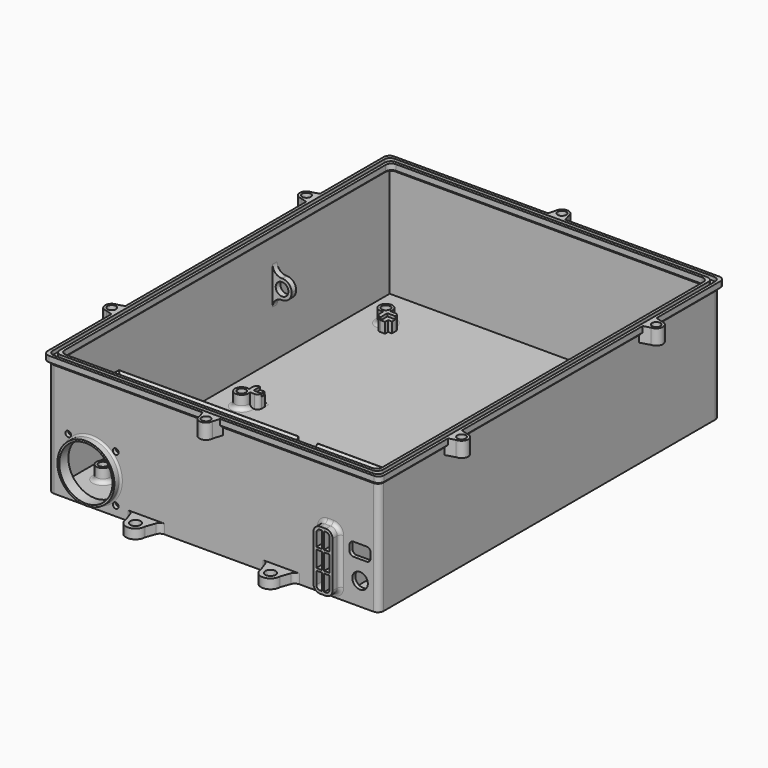
from build123d import *

# Parameters (mm, degrees)
SKETCH_W          = 174
SKETCH_H          = 224
PAD_DEPTH         = 62
SKETCH001_W       = 170
SKETCH001_H       = 220
POCKET_DEPTH      = 60
PAD001_DEPTH      = 30
POCKET001_START   = -4.5
SKETCH003_W       = 72
SKETCH003_H       = 2
POCKET001_DEPTH   = 25.5
SKETCH004_R       = 2.25
PAD002_DEPTH      = 7
SKETCH005_W       = 113
SKETCH005_H       = 88
POCKET002_DEPTH   = 2
FILLET_R          = 2
PAD003_DEPTH      = 2
PAD003_DEPTH_BACK = 1
PAD004_DEPTH      = 2
CHAMFER_SIZE      = 1.49
PAD005_START      = -20
SKETCH008_W       = 10
SKETCH008_H       = 3
PAD005_DEPTH      = 10
SKETCH009_R       = 3.35
POCKET003_DEPTH   = 5
FILLET001_R       = 4.9
SKETCH010_W       = 150
SKETCH010_H       = 40
POCKET004_DEPTH   = 7
POCKET005_DEPTH   = 5
PAD006_DEPTH      = 7
PAD007_DEPTH      = 2
CHAMFER001_SIZE   = 1.9
SKETCH014_R       = 4.1
SKETCH014_W       = 11
SKETCH014_H       = 7
POCKET006_DEPTH   = 5
FILLET002_R       = 2
SKETCH015_W       = 177
SKETCH015_H       = 227
SKETCH015_W_2     = 174
SKETCH015_H_2     = 224
SKETCH015_W_3     = 170
SKETCH015_H_3     = 220
SKETCH015_W_4     = 167
SKETCH015_H_4     = 217
PAD008_DEPTH      = 2
PAD008_DEPTH_BACK = 1
FILLET003_R       = 3
CHAMFER002_SIZE   = 1.49
FILLET004_R       = 4
PAD009_DEPTH      = 8
SKETCH017_R       = 2.25
POCKET007_DEPTH   = 7
SKETCH018_R       = 1.5
SKETCH018_R_2     = 14
POCKET008_DEPTH   = 2
FILLET005_R       = 2
PAD010_START      = -4
PAD010_DEPTH      = 8
SKETCH020_R       = 2.25
POCKET009_DEPTH   = 7
CHAMFER003_SIZE   = 1.5
POCKET010_DEPTH   = 2
PAD011_DEPTH      = 5
PAD012_DEPTH      = 7
FILLET006_R       = 1.9
FILLET007_R       = 1
SKETCH024_W       = 142
SKETCH024_H       = 114
POCKET011_DEPTH   = 7
SKETCH025_R       = 2.25
PAD013_DEPTH      = 7
SKETCH026_W       = 113
SKETCH026_H       = 88
POCKET012_DEPTH   = 1.5
FILLET008_R       = 2
FILLET009_R       = 3
PAD014_START      = -4
PAD014_DEPTH      = 2
FILLET010_R       = 1
SKETCH028_R       = 15
SKETCH028_R_2     = 14
PAD015_DEPTH      = 4
FILLET011_R       = 1
SKETCH029_R       = 3.5
SKETCH029_R_2     = 2.25
PAD016_DEPTH      = 7
FILLET012_R       = 2
SKETCH030_W       = 10
SKETCH030_H       = 2
POCKET013_DEPTH   = 4
SKETCH031_R       = 2.75
PAD017_DEPTH      = 5
FILLET013_R       = 3


with BuildPart() as part:
    # Sketch → Pad (new body)
    with BuildSketch(Plane.XY):
        Rectangle(SKETCH_W, SKETCH_H)
    extrude(amount=PAD_DEPTH)

    # Sketch001 (on Face6 of Pad) → Pocket (cut)
    with BuildSketch(Plane.XY.offset(62)):
        Rectangle(SKETCH001_W, SKETCH001_H)
    extrude(amount=-POCKET_DEPTH, mode=Mode.SUBTRACT)

    # Sketch002 (on Face11 of Pocket) → Pad001 (join)
    with BuildSketch(Plane.XY.offset(2)):
        Polygon((-85, -70), (-85, -68), (67, -68), (67, -110), (65, -110), (65, -70), align=None)
    extrude(amount=PAD001_DEPTH)

    # Sketch003 (on Face14 of Pad001) → Pocket001 (cut)
    with BuildSketch(Plane.XY.offset(32).offset(POCKET001_START)):
        with Locations((-49, -69)):
            Rectangle(SKETCH003_W, SKETCH003_H)
        with Locations((29, -69)):
            Rectangle(SKETCH003_W, SKETCH003_H)
    extrude(amount=-POCKET001_DEPTH, mode=Mode.SUBTRACT)

    # Sketch004 (on Face19 of Pocket001) → Pad002 (join)
    with BuildSketch(Plane.XY.offset(2)):
        with BuildLine():
            Line((-58.75, 85.480826), (-58.75, 80.980826))
            Line((-58.75, 80.980826), (-54.25, 80.980826))
            Line((-54.25, 80.980826), (-54.25, 83))
            Line((-54.25, 83), (-52.230826, 83))
            Line((-52.230826, 83), (-52.230826, 87.5))
            Line((-52.230826, 87.5), (-56.730826, 87.5))
            ThreePointArc((-56.730826, 87.5), (-62.474874, 91.224874), (-58.75, 85.480826))
        make_face()
        with Locations((-60, 88.75)):
            Circle(SKETCH004_R, mode=Mode.SUBTRACT)
        with BuildLine():
            Line((56.730826, 87.5), (52.230826, 87.5))
            Line((52.230826, 87.5), (52.230826, 83))
            Line((52.230826, 83), (54.25, 83))
            Line((54.25, 83), (54.25, 80.980826))
            Line((54.25, 80.980826), (58.75, 80.980826))
            Line((58.75, 80.980826), (58.75, 85.480826))
            ThreePointArc((58.75, 85.480826), (62.474874, 91.224874), (56.730826, 87.5))
        make_face()
        with Locations((60, 88.75)):
            Circle(SKETCH004_R, mode=Mode.SUBTRACT)
        with BuildLine():
            Line((58.75, -2.780826), (58.75, 1.719174))
            Line((58.75, 1.719174), (54.25, 1.719174))
            Line((54.25, 1.719174), (54.25, -0.3))
            Line((54.25, -0.3), (52.230826, -0.3))
            Line((52.230826, -0.3), (52.230826, -4.8))
            Line((52.230826, -4.8), (56.730826, -4.8))
            ThreePointArc((56.730826, -4.8), (62.474874, -8.524874), (58.75, -2.780826))
        make_face()
        with Locations((60, -6.05)):
            Circle(SKETCH004_R, mode=Mode.SUBTRACT)
        with BuildLine():
            Line((-56.730826, -4.8), (-52.230826, -4.8))
            Line((-52.230826, -4.8), (-52.230826, -0.3))
            Line((-52.230826, -0.3), (-54.25, -0.3))
            Line((-54.25, -0.3), (-54.25, 1.719174))
            Line((-54.25, 1.719174), (-58.75, 1.719174))
            Line((-58.75, 1.719174), (-58.75, -2.780826))
            ThreePointArc((-58.75, -2.780826), (-62.474874, -8.524874), (-56.730826, -4.8))
        make_face()
        with Locations((-60, -6.05)):
            Circle(SKETCH004_R, mode=Mode.SUBTRACT)
    extrude(amount=PAD002_DEPTH)

    # Sketch005 (on Face44 of Pad002) → Pocket002 (cut)
    with BuildSketch(Plane.XY.offset(9)):
        with Locations((0, 41.35)):
            Rectangle(SKETCH005_W, SKETCH005_H)
    extrude(amount=-POCKET002_DEPTH, mode=Mode.SUBTRACT)

    # Fillet
    fillet_edges = [part.edges().sort_by_distance(p)[0] for p in [
        (62.474874, 91.224874, 2),
        (-62.474874, 91.224874, 2),
        (-62.474874, -8.524874, 2),
        (62.474874, -8.524874, 2),
    ]]
    fillet(fillet_edges, radius=FILLET_R)

    # Sketch006 (on Face46 of Fillet) → Pad003 (join, two sides)
    with BuildSketch(Plane.XY.offset(32)) as pad003_sk:
        Polygon((-85, -68), (-85, -66.5), (68.5, -66.5), (68.5, -110), (67, -110), (67, -68), align=None)
    extrude(amount=PAD003_DEPTH)
    extrude(pad003_sk.sketch, amount=-PAD003_DEPTH_BACK)

    # Sketch007 (on Face50 of Pad003) → Pad004 (join)
    with BuildSketch(Plane.XY.offset(32)):
        Polygon((-85, -70), (-83.5, -70), (-83.5, -108.5), (65, -108.5), (65, -110), (-85, -110), align=None)
    extrude(amount=-PAD004_DEPTH)

    # Chamfer
    chamfer_edges = [part.edges().sort_by_distance(p)[0] for p in [
        (-10, -110, 30),
        (-85, -90, 30),
        (-9, -68, 31),
        (67, -89, 31),
    ]]
    chamfer(chamfer_edges, length=CHAMFER_SIZE)

    # Sketch008 (on Face8 of Chamfer) → Pad005 (join)
    with BuildSketch(Plane.XY.offset(62).offset(PAD005_START)):
        with Locations((-80, 34.480826)):
            Rectangle(SKETCH008_W, SKETCH008_H)
    extrude(amount=-PAD005_DEPTH)

    # Sketch009 (on Face59 of Pad005) → Pocket003 (cut)
    with BuildSketch(Plane.XZ.offset(-32.980826)):
        with Locations((-80, 37)):
            Circle(SKETCH009_R)
    extrude(amount=-POCKET003_DEPTH, mode=Mode.SUBTRACT)

    # Fillet001
    fillet001_edges = [part.edges().sort_by_distance(p)[0] for p in [
        (-75, 34.480826, 42),
        (-75, 34.480826, 32),
        (-85, 34.480826, 32),
        (-85, 34.480826, 42),
    ]]
    fillet(fillet001_edges, radius=FILLET001_R)

    # Sketch010 (on Face16 of Fillet001) → Pocket004 (cut)
    with BuildSketch(Plane.XY.offset(32)):
        with Locations((-10, -90)):
            Rectangle(SKETCH010_W, SKETCH010_H)
    extrude(amount=-POCKET004_DEPTH, mode=Mode.SUBTRACT)

    # Sketch011 (on Face11 of Pocket004) → Pocket005 (cut)
    with BuildSketch(Plane.XY.offset(34)):
        Polygon((-85, -66.5), (68.5, -66.5), (68.5, -110), (67, -110), (67, -68), (-85, -68), align=None)
    extrude(amount=-POCKET005_DEPTH, mode=Mode.SUBTRACT)

    # Sketch012 (on Face1 of Pocket005) → Pad006 (join)
    with BuildSketch(Plane.XY.offset(32)):
        Polygon((65, -70), (65, -110), (67, -110), (67, -68), (-85, -68), (-85, -70), align=None)
    extrude(amount=PAD006_DEPTH)

    # Sketch013 (on Face9 of Pad006) → Pad007 (join)
    with BuildSketch(Plane.XY.offset(39)):
        Polygon((-85, -70), (-83, -70), (-83, -108), (65, -108), (65, -110), (-85, -110), align=None)
    extrude(amount=-PAD007_DEPTH)

    # Chamfer001
    chamfer001_edges = [part.edges().sort_by_distance(p)[0] for p in [
        (-9, -108, 39),
        (65, -89, 39),
        (-10, -110, 37),
        (-9, -70, 39),
        (-83, -89, 39),
        (-85, -90, 37),
    ]]
    chamfer(chamfer001_edges, length=CHAMFER001_SIZE)

    # Sketch014 (on Face57 of Chamfer001) → Pocket006 (cut)
    with BuildSketch(Plane.XZ.offset(112)):
        with Locations((77, 12)):
            Circle(SKETCH014_R)
        with Locations((77, 25.5)):
            Rectangle(SKETCH014_W, SKETCH014_H)
    extrude(amount=-POCKET006_DEPTH, mode=Mode.SUBTRACT)

    # Fillet002
    fillet002_edges = [part.edges().sort_by_distance(p)[0] for p in [
        (82.5, -111, 29),
        (71.5, -111, 29),
        (71.5, -111, 22),
        (82.5, -111, 22),
    ]]
    fillet(fillet002_edges, radius=FILLET002_R)

    # Sketch015 (on Face11 of Fillet002) → Pad008 (join, two sides)
    with BuildSketch(Plane.XY.offset(62)) as pad008_sk:
        Rectangle(SKETCH015_W, SKETCH015_H)
        Rectangle(SKETCH015_W_2, SKETCH015_H_2, mode=Mode.SUBTRACT)
        Rectangle(SKETCH015_W_3, SKETCH015_H_3)
        Rectangle(SKETCH015_W_4, SKETCH015_H_4, mode=Mode.SUBTRACT)
    extrude(amount=PAD008_DEPTH)
    extrude(pad008_sk.sketch, amount=-PAD008_DEPTH_BACK)

    # Fillet003
    fillet003_edges = [part.edges().sort_by_distance(p)[0] for p in [
        (-83.5, 108.5, 62.5),
        (-85, 110, 63),
        (-87, 112, 30.5),
        (-87, 112, 63),
        (-88.5, 113.5, 62.5),
        (83.5, 108.5, 62.5),
        (85, 110, 63),
        (87, 112, 30.5),
        (87, 112, 63),
        (88.5, 113.5, 62.5),
        (87, -112, 63),
        (87, -112, 30.5),
        (85, -110, 63),
        (83.5, -108.5, 62.5),
        (-88.5, -113.5, 62.5),
        (-87, -112, 30.5),
        (-87, -112, 63),
        (-85, -110, 63),
        (-83.5, -108.5, 62.5),
        (88.5, -113.5, 62.5),
    ]]
    fillet(fillet003_edges, radius=FILLET003_R)

    # Chamfer002
    chamfer002_edges = [part.edges().sort_by_distance(p)[0] for p in [
        (0, 110, 61),
        (85, 0, 61),
        (86.12132, 111.12132, 61),
        (-85, 0, 61),
        (-86.12132, 111.12132, 61),
        (-86.12132, -111.12132, 61),
        (0, -110, 61),
        (86.12132, -111.12132, 61),
    ]]
    chamfer(chamfer002_edges, length=CHAMFER002_SIZE)

    # Fillet004
    fillet004_edges = [part.edges().sort_by_distance(p)[0] for p in [
        (84.255, 109.255, 60.255),
        (-84.255, 109.255, 60.255),
        (-84.255, -109.255, 60.255),
        (84.255, -109.255, 60.255),
    ]]
    fillet(fillet004_edges, radius=FILLET004_R)

    # Sketch016 (on Face144 of Fillet004) → Pad009 (join)
    with BuildSketch(Plane.XY.offset(64)):
        with BuildLine():
            ThreePointArc((3.5, 117), (0, 120.5), (-3.5, 117))
            Line((-3.5, 117), (-5, 112))
            Line((-5, 112), (5, 112))
            Line((5, 112), (3.5, 117))
        make_face()
        with BuildLine():
            ThreePointArc((-92, -60.5), (-95.5, -64), (-92, -67.5))
            Line((-87, -69), (-92, -67.5))
            Line((-87, -59), (-87, -69))
            Line((-92, -60.5), (-87, -59))
        make_face()
        with BuildLine():
            ThreePointArc((-92, 67.5), (-95.5, 64), (-92, 60.5))
            Line((-92, 60.5), (-87, 59))
            Line((-87, 59), (-87, 69))
            Line((-87, 69), (-92, 67.5))
        make_face()
        with BuildLine():
            ThreePointArc((92, 60.5), (95.5, 64), (92, 67.5))
            Line((87, 69), (92, 67.5))
            Line((87, 59), (87, 69))
            Line((92, 60.5), (87, 59))
        make_face()
        with BuildLine():
            ThreePointArc((92, -67.5), (95.5, -64), (92, -60.5))
            Line((92, -60.5), (87, -59))
            Line((87, -59), (87, -69))
            Line((87, -69), (92, -67.5))
        make_face()
        with BuildLine():
            ThreePointArc((-3.5, -117), (0, -120.5), (3.5, -117))
            Line((3.5, -117), (5, -112))
            Line((5, -112), (-5, -112))
            Line((-5, -112), (-3.5, -117))
        make_face()
    extrude(amount=-PAD009_DEPTH)

    # Sketch017 (on Face212 of Pad009) → Pocket007 (cut)
    with BuildSketch(Plane.XY.offset(64)):
        with Locations((-92, 64)):
            Circle(SKETCH017_R)
        with Locations((-92, -64)):
            Circle(SKETCH017_R)
        with Locations((0, 117)):
            Circle(SKETCH017_R)
        with Locations((92, 64)):
            Circle(SKETCH017_R)
        with Locations((92, -64)):
            Circle(SKETCH017_R)
        with Locations((0, -117)):
            Circle(SKETCH017_R)
    extrude(amount=-POCKET007_DEPTH, mode=Mode.SUBTRACT)

    # Sketch018 (on Face97 of Pocket007) → Pocket008 (cut)
    with BuildSketch(Plane.XZ.offset(112)):
        with Locations((-76.5, 30.05)):
            Circle(SKETCH018_R)
        with Locations((-51.5, 30.05)):
            Circle(SKETCH018_R)
        with Locations((-51.5, 5.05)):
            Circle(SKETCH018_R)
        with Locations((-76.5, 5.05)):
            Circle(SKETCH018_R)
        with Locations((-64, 17.55)):
            Circle(SKETCH018_R_2)
    extrude(amount=-POCKET008_DEPTH, mode=Mode.SUBTRACT)

    # Fillet005
    fillet005_edges = [part.edges().sort_by_distance(p)[0] for p in [
        (52.230826, -4.8, 5.5),
        (58.75, 1.719174, 5.5),
        (58.75, 80.980826, 5.5),
        (52.230826, 87.5, 5.5),
        (-52.230826, -4.8, 5.5),
        (-58.75, 1.719174, 5.5),
        (-58.75, 80.980826, 5.5),
        (-52.230826, 87.5, 5.5),
    ]]
    fillet(fillet005_edges, radius=FILLET005_R)

    # Sketch019 (on Face55 of Fillet005) → Pad010 (join)
    with BuildSketch(Plane.XY.offset(39).offset(PAD010_START)):
        with BuildLine():
            ThreePointArc((-13.5, -76), (-10, -79.5), (-6.5, -76))
            Line((-7, -70), (-6.5, -76))
            Line((-13, -70), (-7, -70))
            Line((-13, -70), (-13.5, -76))
        make_face()
        with BuildLine():
            ThreePointArc((-6.5, -104), (-10, -100.5), (-13.5, -104))
            Line((-14, -110), (-13.5, -104))
            Line((-6, -110), (-14, -110))
            Line((-6.5, -104), (-6, -110))
        make_face()
        with BuildLine():
            ThreePointArc((59, -85.5), (55.5, -89), (59, -92.5))
            Line((65, -93), (59, -92.5))
            Line((65, -85), (65, -93))
            Line((59, -85.5), (65, -85))
        make_face()
        with BuildLine():
            ThreePointArc((-79, -93.5), (-75.5, -90), (-79, -86.5))
            Line((-85, -86), (-79, -86.5))
            Line((-85, -94), (-85, -86))
            Line((-79, -93.5), (-85, -94))
        make_face()
    extrude(amount=-PAD010_DEPTH)

    # Sketch020 (on Face126 of Pad010) → Pocket009 (cut)
    with BuildSketch(Plane.XY.offset(35)):
        with Locations((-79, -90)):
            Circle(SKETCH020_R)
        with Locations((-10, -76)):
            Circle(SKETCH020_R)
        with Locations((-10, -104)):
            Circle(SKETCH020_R)
        with Locations((59, -89)):
            Circle(SKETCH020_R)
    extrude(amount=-POCKET009_DEPTH, mode=Mode.SUBTRACT)

    # Chamfer003
    chamfer003_edges = [part.edges().sort_by_distance(p)[0] for p in [
        (65, -68, 14.75),
        (29, -68, 27.5),
        (-7, -68, 14.75),
        (-13, -68, 14.75),
        (-49, -68, 27.5),
    ]]
    chamfer(chamfer003_edges, length=CHAMFER003_SIZE)

    # Sketch021 (on Face132 of Chamfer003) → Pocket010 (cut)
    with BuildSketch(Plane.XZ.offset(112)):
        with BuildLine():
            ThreePointArc((60, 32.1), (58.585786, 31.514214), (58, 30.1))
            Line((58, 6), (58, 30.1))
            ThreePointArc((58, 6), (58.585786, 4.585786), (60, 4))
            Line((63, 4), (60, 4))
            ThreePointArc((63, 4), (64.414214, 4.585786), (65, 6))
            Line((65, 30.1), (65, 6))
            ThreePointArc((65, 30.1), (64.414214, 31.514214), (63, 32.1))
            Line((60, 32.1), (63, 32.1))
        make_face()
    extrude(amount=-POCKET010_DEPTH, mode=Mode.SUBTRACT)

    # Sketch022 (on Face135 of Pocket010) → Pad011 (join)
    with BuildSketch(Plane.XZ.offset(112)):
        with BuildLine():
            ThreePointArc((60, 33.6), (57.525126, 32.574874), (56.5, 30.1))
            Line((56.5, 6), (56.5, 30.1))
            ThreePointArc((56.5, 6), (57.525126, 3.525126), (60, 2.5))
            Line((63, 2.5), (60, 2.5))
            ThreePointArc((63, 2.5), (65.474874, 3.525126), (66.5, 6))
            Line((66.5, 30.1), (66.5, 6))
            ThreePointArc((66.5, 30.1), (65.474874, 32.574874), (63, 33.6))
            Line((60, 33.6), (63, 33.6))
        make_face()
        with BuildLine():
            ThreePointArc((60, 32.1), (58.585786, 31.514214), (58, 30.1))
            Line((58, 6), (58, 30.1))
            ThreePointArc((58, 6), (58.585786, 4.585786), (60, 4))
            Line((63, 4), (60, 4))
            ThreePointArc((63, 4), (64.414214, 4.585786), (65, 6))
            Line((65, 30.1), (65, 6))
            ThreePointArc((65, 30.1), (64.414214, 31.514214), (63, 32.1))
            Line((60, 32.1), (63, 32.1))
        make_face(mode=Mode.SUBTRACT)
    extrude(amount=PAD011_DEPTH)

    # Sketch023 (on Face164 of Pad011) → Pad012 (join)
    with BuildSketch(Plane.XZ.offset(117)):
        Polygon((60.9, 32.1), (62.1, 32.1), (62.1, 23.533333), (65, 23.533333), (65, 22.333333), (62.1, 22.333333), (62.1, 13.766667), (65, 13.766667), (65, 12.566667), (62.1, 12.566667), (62.1, 4), (60.9, 4), (60.9, 12.566667), (58, 12.566667), (58, 13.766667), (60.9, 13.766667), (60.9, 22.333333), (58, 22.333333), (58, 23.533333), (60.9, 23.533333), align=None)
    extrude(amount=-PAD012_DEPTH)

    # Fillet006
    fillet006_edges = [part.edges().sort_by_distance(p)[0] for p in [
        (58, -110, 26.816667),
        (58, -110, 18.05),
        (58, -110, 9.283333),
        (57.525126, -112, 32.574874),
    ]]
    fillet(fillet006_edges, radius=FILLET006_R)

    # Fillet007
    fillet007_edges = [part.edges().sort_by_distance(p)[0] for p in [
        (62.1, -110, 27.816667),
        (62.1, -110, 18.05),
        (62.1, -110, 8.283333),
    ]]
    fillet(fillet007_edges, radius=FILLET007_R)

    # Sketch024 (on Face176 of Fillet007) → Pocket011 (cut)
    with BuildSketch(Plane.XY.offset(9)):
        with Locations((0, 41.35)):
            Rectangle(SKETCH024_W, SKETCH024_H)
    extrude(amount=-POCKET011_DEPTH, mode=Mode.SUBTRACT)

    # Sketch025 (on Face78 of Pocket011) → Pad013 (join)
    with BuildSketch(Plane.XY.offset(2)):
        with BuildLine():
            ThreePointArc((-66.730826, 87.5), (-72.474874, 91.224874), (-68.75, 85.480826))
            Line((-68.75, 80.980826), (-68.75, 85.480826))
            Line((-64.25, 80.980826), (-68.75, 80.980826))
            Line((-64.25, 83), (-64.25, 80.980826))
            Line((-62.230826, 83), (-64.25, 83))
            Line((-62.230826, 87.5), (-62.230826, 83))
            Line((-66.730826, 87.5), (-62.230826, 87.5))
        make_face()
        with Locations((-70, 88.75)):
            Circle(SKETCH025_R, mode=Mode.SUBTRACT)
        with BuildLine():
            ThreePointArc((-68.75, -2.780826), (-72.474874, -8.524874), (-66.730826, -4.8))
            Line((-66.730826, -4.8), (-62.230826, -4.8))
            Line((-62.230826, -4.8), (-62.230826, -0.3))
            Line((-62.230826, -0.3), (-64.25, -0.3))
            Line((-64.25, -0.3), (-64.25, 1.719174))
            Line((-64.25, 1.719174), (-68.75, 1.719174))
            Line((-68.75, 1.719174), (-68.75, -2.780826))
        make_face()
        with Locations((-70, -6.05)):
            Circle(SKETCH025_R, mode=Mode.SUBTRACT)
        with BuildLine():
            ThreePointArc((46.730826, -4.8), (52.474874, -8.524874), (48.75, -2.780826))
            Line((48.75, 1.719174), (48.75, -2.780826))
            Line((44.25, 1.719174), (48.75, 1.719174))
            Line((44.25, -0.3), (44.25, 1.719174))
            Line((42.230826, -0.3), (44.25, -0.3))
            Line((42.230826, -4.8), (42.230826, -0.3))
            Line((46.730826, -4.8), (42.230826, -4.8))
        make_face()
        with Locations((50, -6.05)):
            Circle(SKETCH025_R, mode=Mode.SUBTRACT)
        with BuildLine():
            ThreePointArc((48.75, 85.480826), (52.474874, 91.224874), (46.730826, 87.5))
            Line((46.730826, 87.5), (42.230826, 87.5))
            Line((42.230826, 87.5), (42.230826, 83))
            Line((42.230826, 83), (44.25, 83))
            Line((44.25, 83), (44.25, 80.980826))
            Line((44.25, 80.980826), (48.75, 80.980826))
            Line((48.75, 80.980826), (48.75, 85.480826))
        make_face()
        with Locations((50, 88.75)):
            Circle(SKETCH025_R, mode=Mode.SUBTRACT)
    extrude(amount=PAD013_DEPTH)

    # Sketch026 (on Face257 of Pad013) → Pocket012 (cut)
    with BuildSketch(Plane.XY.offset(9)):
        with Locations((-10, 41.35)):
            Rectangle(SKETCH026_W, SKETCH026_H)
    extrude(amount=-POCKET012_DEPTH, mode=Mode.SUBTRACT)

    # Fillet008
    fillet008_edges = [part.edges().sort_by_distance(p)[0] for p in [
        (-67.433538, 91.129763, 2),
        (-62.230826, 87.5, 5.5),
        (-68.75, 80.980826, 5.5),
        (48.75, 80.980826, 5.5),
        (42.230826, 87.5, 5.5),
        (50.18451, 92.245133, 2),
        (50.18451, -9.545133, 2),
        (42.230826, -4.8, 5.5),
        (48.75, 1.719174, 5.5),
        (-67.433538, -8.429763, 2),
        (-62.230826, -4.8, 5.5),
        (-68.75, 1.719174, 5.5),
    ]]
    fillet(fillet008_edges, radius=FILLET008_R)

    # Fillet009
    fillet009_edges = [part.edges().sort_by_distance(p)[0] for p in [
        (-10, -70, 2),
    ]]
    fillet(fillet009_edges, radius=FILLET009_R)

    # Sketch027 (on Face66 of Fillet009) → Pad014 (join)
    with BuildSketch(Plane.XY.offset(39).offset(PAD014_START)):
        Polygon((-85, -85), (-85, -82), (-49, -70), (-43, -70), align=None)
        Polygon((25, -70), (31, -70), (65, -82), (65, -85), align=None)
    extrude(amount=-PAD014_DEPTH)

    # Fillet010
    fillet010_edges = [part.edges().sort_by_distance(p)[0] for p in [
        (65, -82, 34),
        (31, -70, 34),
        (-49, -70, 34),
        (-85, -82, 34),
    ]]
    fillet(fillet010_edges, radius=FILLET010_R)

    # Sketch028 (on Face157 of Fillet010) → Pad015 (join)
    with BuildSketch(Plane.XZ.offset(112)):
        with Locations((-64, 17.55)):
            Circle(SKETCH028_R)
        with Locations((-64, 17.55)):
            Circle(SKETCH028_R_2, mode=Mode.SUBTRACT)
    extrude(amount=PAD015_DEPTH)

    # Fillet011
    fillet011_edges = [part.edges().sort_by_distance(p)[0] for p in [
        (-79, -112, 17.55),
    ]]
    fillet(fillet011_edges, radius=FILLET011_R)

    # Sketch029 (on Face121 of Fillet011) → Pad016 (join)
    with BuildSketch(Plane.XY.offset(2)):
        with Locations((-73.75, -92.5)):
            Circle(SKETCH029_R)
        with Locations((-73.75, -92.5)):
            Circle(SKETCH029_R_2, mode=Mode.SUBTRACT)
        with Locations((-22.75, -92.5)):
            Circle(SKETCH029_R)
        with Locations((-22.75, -92.5)):
            Circle(SKETCH029_R_2, mode=Mode.SUBTRACT)
        with Locations((3.5, -92.5)):
            Circle(SKETCH029_R)
        with Locations((3.5, -92.5)):
            Circle(SKETCH029_R_2, mode=Mode.SUBTRACT)
        with Locations((54.5, -92.5)):
            Circle(SKETCH029_R)
        with Locations((54.5, -92.5)):
            Circle(SKETCH029_R_2, mode=Mode.SUBTRACT)
    extrude(amount=PAD016_DEPTH)

    # Fillet012
    fillet012_edges = [part.edges().sort_by_distance(p)[0] for p in [
        (-77.25, -92.5, 2),
        (-26.25, -92.5, 2),
        (-64.25, 0.709587, 2),
        (51, -92.5, 2),
    ]]
    fillet(fillet012_edges, radius=FILLET012_R)

    # Sketch030 (on Face71 of Fillet012) → Pocket013 (cut)
    with BuildSketch(Plane.XY.offset(39)):
        with Locations((14.5, -69)):
            Rectangle(SKETCH030_W, SKETCH030_H)
    extrude(amount=-POCKET013_DEPTH, mode=Mode.SUBTRACT)

    # Sketch031 (on Face253 of Pocket013) → Pad017 (join)
    with BuildSketch(Plane(origin=(0, 0, 0), x_dir=(1, 0, 0), z_dir=(0, 0, -1))):
        with BuildLine():
            ThreePointArc((-30.5, 119), (-35.5, 124), (-40.5, 119))
            Line((-40.5, 119), (-43, 112))
            Line((-43, 112), (-28, 112))
            Line((-28, 112), (-30.5, 119))
        make_face()
        with Locations((-35.5, 119)):
            Circle(SKETCH031_R, mode=Mode.SUBTRACT)
        with BuildLine():
            ThreePointArc((40.5, 119), (35.5, 124), (30.5, 119))
            Line((28, 112), (30.5, 119))
            Line((43, 112), (28, 112))
            Line((40.5, 119), (43, 112))
        make_face()
        with Locations((35.5, 119)):
            Circle(SKETCH031_R, mode=Mode.SUBTRACT)
        with BuildLine():
            ThreePointArc((30.5, -119), (35.5, -124), (40.5, -119))
            Line((40.5, -119), (43, -112))
            Line((43, -112), (28, -112))
            Line((28, -112), (30.5, -119))
        make_face()
        with Locations((35.5, -119)):
            Circle(SKETCH031_R, mode=Mode.SUBTRACT)
        with BuildLine():
            ThreePointArc((-40.5, -119), (-35.5, -124), (-30.5, -119))
            Line((-30.5, -119), (-28, -112))
            Line((-28, -112), (-43, -112))
            Line((-43, -112), (-40.5, -119))
        make_face()
        with Locations((-35.5, -119)):
            Circle(SKETCH031_R, mode=Mode.SUBTRACT)
    extrude(amount=-PAD017_DEPTH)

    # Fillet013
    fillet013_edges = [part.edges().sort_by_distance(p)[0] for p in [
        (28, 112, 2.5),
        (43, 112, 2.5),
        (-43, 112, 2.5),
        (-28, 112, 2.5),
        (-43, -112, 2.5),
        (-28, -112, 2.5),
        (28, -112, 2.5),
        (43, -112, 2.5),
    ]]
    fillet(fillet013_edges, radius=FILLET013_R)


solid = part.part
